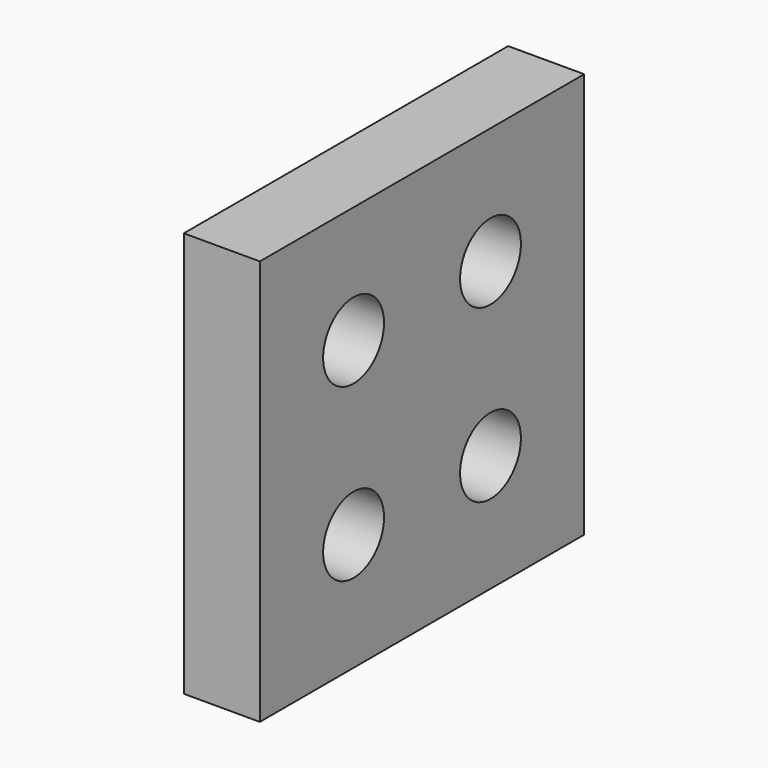
from build123d import *

# Parameters (mm, degrees)
F0_R     = 5
F1_DEPTH = 10


with BuildPart() as f1:
    # F0 (on Right) → F1 (new body)
    with BuildSketch(Plane.YZ):
        Polygon((22.5, 37.9), (0, 37.9), (-15.4, 37.9), (-15.4, 15), (-15.4, 7.5), (-15.4, -15.4), (0, -15.4), (22.5, -15.4), (37.9, -15.4), (37.9, 0), (37.9, 22.5), (37.9, 37.9), align=None)
        Circle(F0_R, mode=Mode.SUBTRACT)
        with Locations((22.5, 0)):
            Circle(F0_R, mode=Mode.SUBTRACT)
        with Locations((0, 22.5)):
            Circle(F0_R, mode=Mode.SUBTRACT)
        with Locations((22.5, 22.5)):
            Circle(F0_R, mode=Mode.SUBTRACT)
    extrude(amount=-F1_DEPTH)


solid = f1.part
